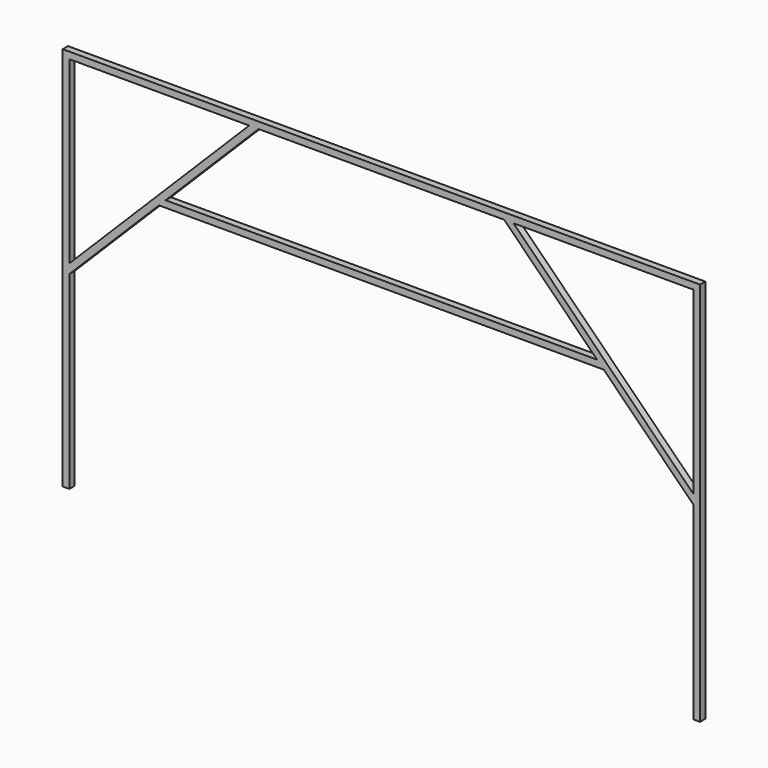
from build123d import *

# Parameters (mm, degrees)
F1_DEPTH = 12.7


with BuildPart() as f1:
    # F0 (on Front) → F1 (new body)
    with BuildSketch(Plane.XZ):
        Polygon((0, 736.6), (0, 0), (12.7, 0), (12.7, 361.95), (12.7, 379.910512), (12.7, 723.9), (356.689488, 723.9), (374.65, 723.9), (844.55, 723.9), (862.510512, 723.9), (1206.5, 723.9), (1206.5, 379.910512), (1206.5, 361.95), (1206.5, 0), (1219.2, 0), (1219.2, 736.6), align=None)
        Polygon((12.7, 379.910512), (12.7, 361.95), (184.15, 533.4), (196.85, 546.1), (374.65, 723.9), (356.689488, 723.9), align=None)
        Polygon((1022.35, 546.1), (1035.05, 533.4), (1206.5, 361.95), (1206.5, 379.910512), (862.510512, 723.9), (844.55, 723.9), align=None)
        Polygon((196.85, 546.1), (184.15, 533.4), (1035.05, 533.4), (1022.35, 546.1), (501.671788, 546.1), align=None)
    extrude(amount=F1_DEPTH)


solid = f1.part
